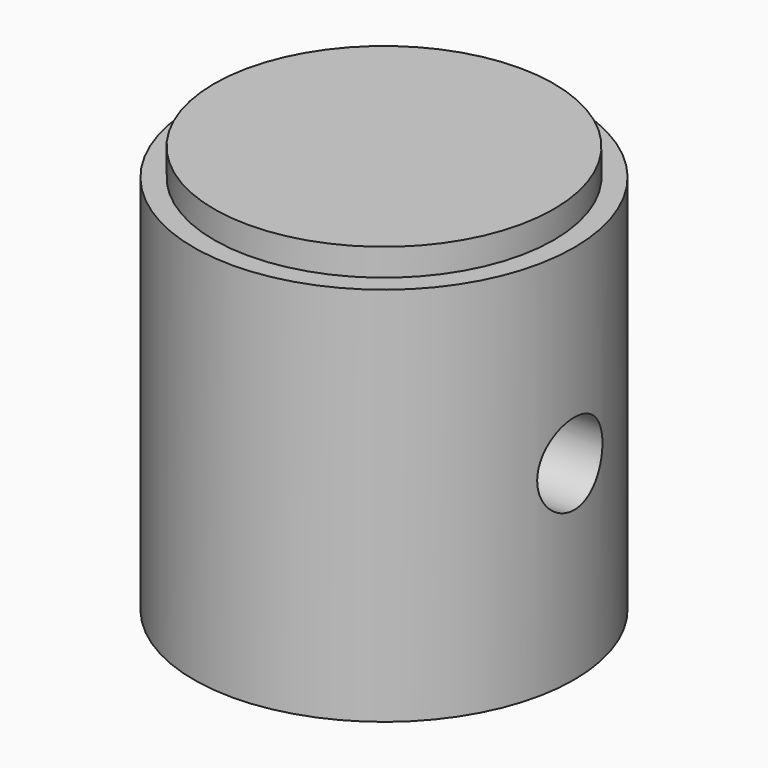
from build123d import *

# Parameters (mm, degrees)
F2_R          = 1.5
F3_DEPTH      = 7.001
F3_DEPTH_BACK = 7.001


with BuildPart() as f1:
    # F0 (on Front) → F1 (revolve)
    with BuildSketch(Plane.XZ):
        Polygon((-7, 14), (-7, 0), (-6.2, 0), (-4.75, 3.9838422582), (-4.75, 11), (0, 13.5256198004), (0, 15), (-6.25, 15), (-6.25, 14), align=None)
    revolve(axis=Axis((0, 0, 14.2628099002), (0, 0, -1)))

    # F2 (on Right) → F3 (cut, two sides)
    with BuildSketch(Plane.YZ) as f3_sk:
        with Locations((0, 7)):
            Circle(F2_R)
    extrude(amount=-F3_DEPTH, mode=Mode.SUBTRACT)
    extrude(f3_sk.sketch, amount=F3_DEPTH_BACK, mode=Mode.SUBTRACT)


solid = f1.part
